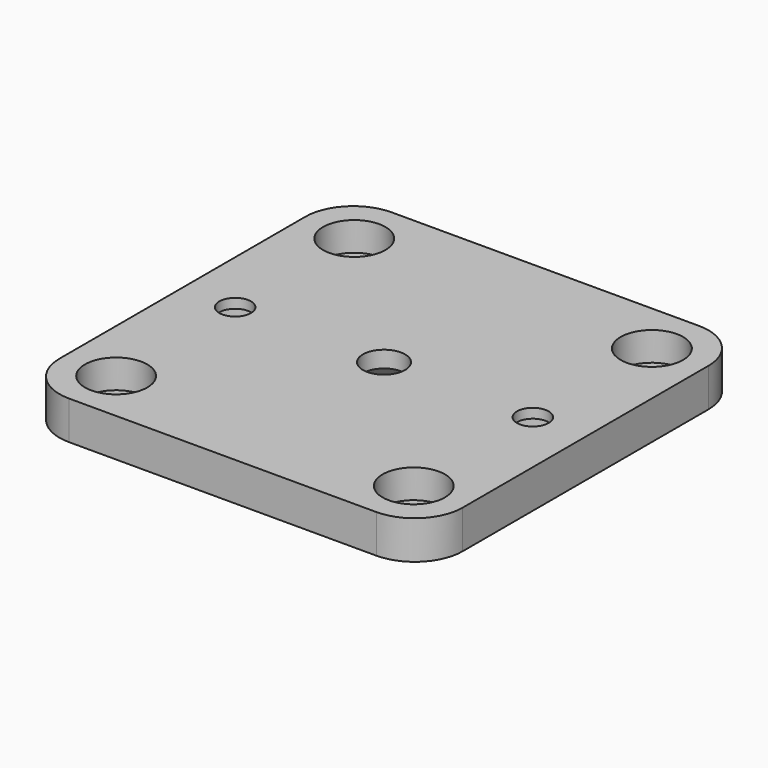
from build123d import *

# Parameters (mm, degrees)
F0_W           = 42
F0_H           = 42
F1_DEPTH       = 4
F3_R           = 5
F4_D           = 3.3
F4_CBORE_D     = 6.5
F4_CBORE_DEPTH = 3
F6_D           = 4.4
F6_CSINK_D     = 8.96
F6_CSINK_ANGLE = 90
F8_D           = 3.3
F8_CBORE_D     = 6.5
F8_CBORE_DEPTH = 3


with BuildPart() as f1:
    # F0 (on Top) → F1 (new body)
    with BuildSketch(Plane.XY):
        Rectangle(F0_W, F0_H)
    extrude(amount=F1_DEPTH)

    # F3
    f3_edges = [f1.edges().sort_by_distance(p)[0] for p in [
        (-21, 21, 2),
        (-21, -21, 2),
        (21, -21, 2),
        (21, 21, 2),
    ]]
    fillet(f3_edges, radius=F3_R)

    # F4 (through all)
    with Locations(Plane.XY.offset(4)):
        with Locations((-15.5, 15.5), (15.5, 15.5), (15.5, -15.5), (-15.5, -15.5)):
            CounterBoreHole(F4_D / 2, F4_CBORE_D / 2, F4_CBORE_DEPTH)

    # F6 (through all)
    with Locations(Plane(origin=(0, 0, 0), x_dir=(1, 0, 0), z_dir=(0, 0, -1))):
        with Locations((0, 0)):
            CounterSinkHole(F6_D / 2, F6_CSINK_D / 2, counter_sink_angle=F6_CSINK_ANGLE)

    # F8 (through all)
    with Locations(Plane(origin=(0, 0, 0), x_dir=(1, 0, 0), z_dir=(0, 0, -1))):
        with Locations((-15.5, 0), (15.5, 0)):
            CounterBoreHole(F8_D / 2, F8_CBORE_D / 2, F8_CBORE_DEPTH)


solid = f1.part
